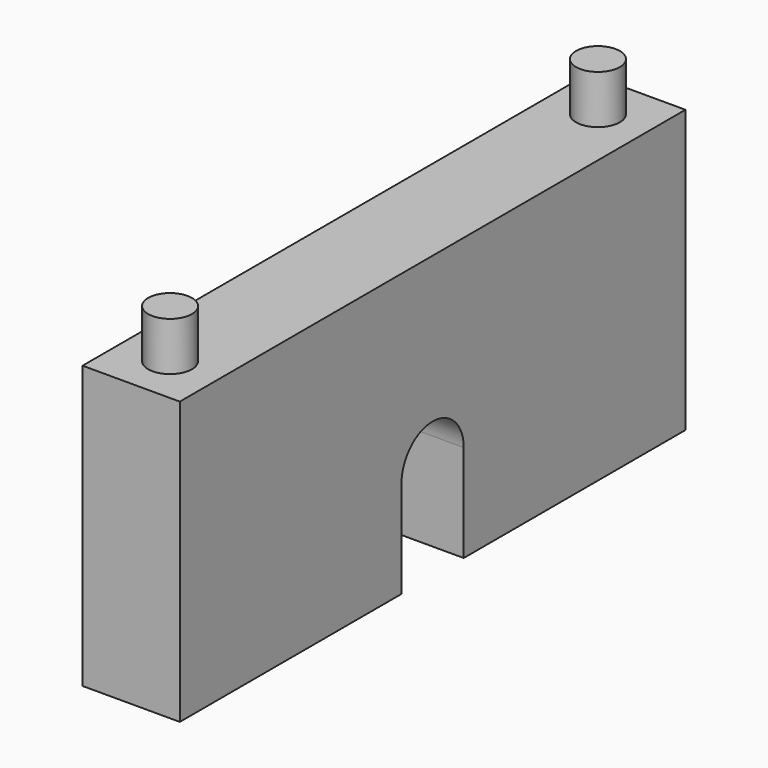
from build123d import *

# Parameters (mm, degrees)
F0_W     = 20
F0_H     = 130
F1_DEPTH = 58
F3_DEPTH = 20.001
F4_R     = 4.5
F5_DEPTH = 10


with BuildPart() as f1:
    # F0 (on Top) → F1 (new body)
    with BuildSketch(Plane.XY):
        with Locations((10, -65)):
            Rectangle(F0_W, F0_H)
    extrude(amount=F1_DEPTH)

    # F2 (on face) → F3 (cut, through all)
    with BuildSketch(Plane.YZ.offset(20)):
        with BuildLine():
            Line((-57, 0), (-57, 20))
            ThreePointArc((-57, 20), (-65, 28), (-73, 20))
            Line((-73, 20), (-73, 0))
            Line((-73, 0), (-57, 0))
        make_face()
    extrude(amount=-F3_DEPTH, mode=Mode.SUBTRACT)

    # F4 (on face) → F5 (join)
    with BuildSketch(Plane.XY.offset(58)):
        with Locations((10, -10)):
            Circle(F4_R)
        with Locations((10, -120)):
            Circle(F4_R)
    extrude(amount=F5_DEPTH)


solid = f1.part
